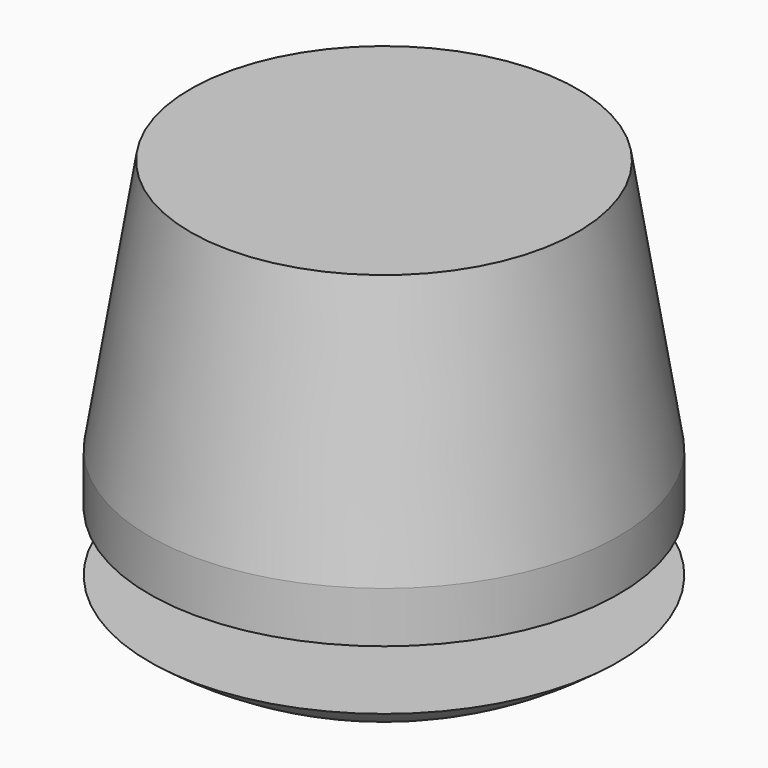
from build123d import *


with BuildPart() as f1:
    # F0 (on Right) → F1 (revolve)
    with BuildSketch(Plane.YZ):
        with BuildLine():
            ThreePointArc((-11.699607, 4.015982), (-6.184838, 1.031946), (0, 0))
            Line((0, 0), (0, 4.7625))
            Line((0, 4.7625), (0, 9.525))
            Line((0, 9.525), (0, 19.05))
            Line((0, 19.05), (0, 22.225))
            Line((0, 22.225), (-9.659656, 22.225))
            Line((-9.659656, 22.225), (-11.699607, 9.525))
            Line((-11.699607, 9.525), (-11.699607, 6.984011))
            Line((-11.699607, 6.984011), (-4.127539, 6.984011))
            Line((-4.127539, 6.984011), (-4.127539, 6.81355))
            Line((-4.127539, 6.81355), (-3.568739, 6.81355))
            Line((-3.568739, 6.81355), (-3.568739, 6.48335))
            Line((-3.568739, 6.48335), (-4.127539, 6.48335))
            Line((-4.127539, 6.48335), (-4.127539, 6.15315))
            Line((-4.127539, 6.15315), (-3.568739, 6.15315))
            Line((-3.568739, 6.15315), (-3.568739, 5.82295))
            Line((-3.568739, 5.82295), (-4.127539, 5.82295))
            Line((-4.127539, 5.82295), (-4.127539, 5.49275))
            Line((-4.127539, 5.49275), (-3.568739, 5.49275))
            Line((-3.568739, 5.49275), (-3.568739, 5.16255))
            Line((-3.568739, 5.16255), (-4.127539, 5.16255))
            Line((-4.127539, 5.16255), (-4.127539, 4.8387))
            Line((-4.127539, 4.8387), (-3.568739, 4.8387))
            Line((-3.568739, 4.8387), (-3.568739, 4.5085))
            Line((-3.568739, 4.5085), (-4.121154, 4.5085))
            Line((-4.121154, 4.5085), (-4.121154, 4.1783))
            Line((-4.121154, 4.1783), (-3.568739, 4.1783))
            Line((-3.568739, 4.1783), (-3.568739, 4.015982))
            Line((-3.568739, 4.015982), (-11.699607, 4.015982))
        make_face()
    revolve(axis=Axis((0, 0, 11.1125), (0, 0, -1)))


solid = f1.part
